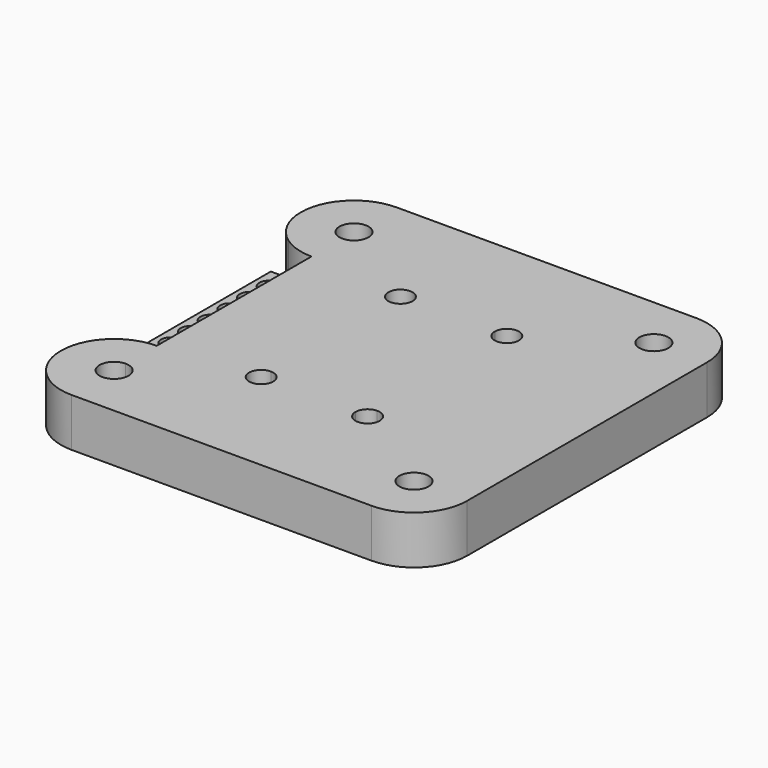
from build123d import *

# Parameters (mm, degrees)
F0_R     = 1.5
F1_DEPTH = 5
F2_DEPTH = 1.6


with BuildPart() as f1:
    # F0 (on Top) → F1 (new body)
    with BuildSketch(Plane.XY):
        with BuildLine():
            ThreePointArc((-15.5, 21), (-19.3890872965, 19.3890872965), (-21, 15.5))
            ThreePointArc((-21, 15.5), (-20.3807031835, 12.9645046964), (-18.6622776602, 11))
            Line((-18.6622776602, 11), (-15.5, 11))
            Line((-15.5, 11), (-12.3377223398, 11))
            ThreePointArc((-12.3377223398, 11), (-10.6192968165, 12.9645046964), (-10, 15.5))
            ThreePointArc((-10, 15.5), (-11.6109127035, 19.3890872965), (-15.5, 21))
        make_face()
        with BuildLine():
            ThreePointArc((-14, 15.5), (-14.4393398282, 14.4393398282), (-15.5, 14))
            ThreePointArc((-15.5, 14), (-16.5606601718, 16.5606601718), (-14, 15.5))
        make_face(mode=Mode.SUBTRACT)
        with BuildLine():
            ThreePointArc((-21, -15.5), (-19.3890872965, -19.3890872965), (-15.5, -21))
            ThreePointArc((-15.5, -21), (-11.6109127035, -19.3890872965), (-10, -15.5))
            ThreePointArc((-10, -15.5), (-10.6192968165, -12.9645046964), (-12.3377223398, -11))
            Line((-12.3377223398, -11), (-15.5, -11))
            Line((-15.5, -11), (-18.6622776602, -11))
            ThreePointArc((-18.6622776602, -11), (-20.3807031835, -12.9645046964), (-21, -15.5))
        make_face()
        with BuildLine():
            ThreePointArc((-14, -15.5), (-16.5606601718, -16.5606601718), (-15.5, -14))
            ThreePointArc((-15.5, -14), (-14.4393398282, -14.4393398282), (-14, -15.5))
        make_face(mode=Mode.SUBTRACT)
        with BuildLine():
            Line((-15.5, -21), (15.5, -21))
            ThreePointArc((15.5, -21), (19.3890872965, -19.3890872965), (21, -15.5))
            Line((21, -15.5), (21, 15.5))
            ThreePointArc((21, 15.5), (19.3890872965, 19.3890872965), (15.5, 21))
            Line((15.5, 21), (-15.5, 21))
            ThreePointArc((-15.5, 21), (-11.6109127035, 19.3890872965), (-10, 15.5))
            ThreePointArc((-10, 15.5), (-10.6192968165, 12.9645046964), (-12.3377223398, 11))
            Line((-12.3377223398, 11), (7.5, 11))
            Line((7.5, 11), (7.5, -11))
            Line((7.5, -11), (-12.3377223398, -11))
            ThreePointArc((-12.3377223398, -11), (-10.6192968165, -12.9645046964), (-10, -15.5))
            ThreePointArc((-10, -15.5), (-11.6109127035, -19.3890872965), (-15.5, -21))
        make_face()
        with Locations((15.5, -15.5)):
            Circle(F0_R, mode=Mode.SUBTRACT)
        with Locations((15.5, 15.5)):
            Circle(F0_R, mode=Mode.SUBTRACT)
        with BuildLine():
            ThreePointArc((-15.5, -10), (-13.8416876048, -10.2559557591), (-12.3377223398, -11))
            Line((-12.3377223398, -11), (7.5, -11))
            Line((7.5, -11), (7.5, 11))
            Line((7.5, 11), (-12.3377223398, 11))
            ThreePointArc((-12.3377223398, 11), (-13.8416876048, 10.2559557591), (-15.5, 10))
            Line((-15.5, 10), (-15.5, -10))
        make_face()
        with BuildLine():
            ThreePointArc((-5.5, 7.75), (-6.3838834765, 9.8838834765), (-4.25, 9))
            Line((-4.25, 9), (4.25, 9))
            ThreePointArc((4.25, 9), (5.5, 10.25), (6.75, 9))
            ThreePointArc((6.75, 9), (6.3838834765, 8.1161165235), (5.5, 7.75))
            Line((5.5, 7.75), (5.5, -7.75))
            ThreePointArc((5.5, -7.75), (6.3838834765, -8.1161165235), (6.75, -9))
            ThreePointArc((6.75, -9), (5.5, -10.25), (4.25, -9))
            Line((4.25, -9), (-4.25, -9))
            ThreePointArc((-4.25, -9), (-6.3838834765, -9.8838834765), (-5.5, -7.75))
            Line((-5.5, -7.75), (-5.5, 7.75))
        make_face(mode=Mode.SUBTRACT)
        with BuildLine():
            Line((-12.3377223398, 11), (-15.5, 11))
            Line((-15.5, 11), (-15.5, 10))
            ThreePointArc((-15.5, 10), (-13.8416876048, 10.2559557591), (-12.3377223398, 11))
        make_face()
        with BuildLine():
            Line((-15.5, -11), (-12.3377223398, -11))
            ThreePointArc((-12.3377223398, -11), (-13.8416876048, -10.2559557591), (-15.5, -10))
            Line((-15.5, -10), (-15.5, -11))
        make_face()
        with BuildLine():
            Line((-15.5, 11), (-18.6622776602, 11))
            ThreePointArc((-18.6622776602, 11), (-17.1583123952, 10.2559557591), (-15.5, 10))
            Line((-15.5, 10), (-15.5, 11))
        make_face()
        with BuildLine():
            ThreePointArc((-15.5, -10), (-17.1583123952, -10.2559557591), (-18.6622776602, -11))
            Line((-18.6622776602, -11), (-15.5, -11))
            Line((-15.5, -11), (-15.5, -10))
        make_face()
        with BuildLine():
            Line((4.25, 9), (-4.25, 9))
            ThreePointArc((-4.25, 9), (-4.6161165235, 8.1161165235), (-5.5, 7.75))
            Line((-5.5, 7.75), (-5.5, -7.75))
            ThreePointArc((-5.5, -7.75), (-4.6161165235, -8.1161165235), (-4.25, -9))
            Line((-4.25, -9), (4.25, -9))
            ThreePointArc((4.25, -9), (4.6161165235, -8.1161165235), (5.5, -7.75))
            Line((5.5, -7.75), (5.5, 7.75))
            ThreePointArc((5.5, 7.75), (4.6161165235, 8.1161165235), (4.25, 9))
        make_face()
    extrude(amount=F1_DEPTH)


with BuildPart() as f2:
    # F0 (on Top) → F2 (new body)
    with BuildSketch(Plane.XY):
        with BuildLine():
            ThreePointArc((-15.5, -10), (-13.8416876048, -10.2559557591), (-12.3377223398, -11))
            Line((-12.3377223398, -11), (7.5, -11))
            Line((7.5, -11), (7.5, 11))
            Line((7.5, 11), (-12.3377223398, 11))
            ThreePointArc((-12.3377223398, 11), (-13.8416876048, 10.2559557591), (-15.5, 10))
            Line((-15.5, 10), (-15.5, -10))
        make_face()
        with BuildLine():
            ThreePointArc((-5.5, 7.75), (-6.3838834765, 9.8838834765), (-4.25, 9))
            Line((-4.25, 9), (4.25, 9))
            ThreePointArc((4.25, 9), (5.5, 10.25), (6.75, 9))
            ThreePointArc((6.75, 9), (6.3838834765, 8.1161165235), (5.5, 7.75))
            Line((5.5, 7.75), (5.5, -7.75))
            ThreePointArc((5.5, -7.75), (6.3838834765, -8.1161165235), (6.75, -9))
            ThreePointArc((6.75, -9), (5.5, -10.25), (4.25, -9))
            Line((4.25, -9), (-4.25, -9))
            ThreePointArc((-4.25, -9), (-6.3838834765, -9.8838834765), (-5.5, -7.75))
            Line((-5.5, -7.75), (-5.5, 7.75))
        make_face(mode=Mode.SUBTRACT)
        with BuildLine():
            Line((4.25, 9), (-4.25, 9))
            ThreePointArc((-4.25, 9), (-4.6161165235, 8.1161165235), (-5.5, 7.75))
            Line((-5.5, 7.75), (-5.5, -7.75))
            ThreePointArc((-5.5, -7.75), (-4.6161165235, -8.1161165235), (-4.25, -9))
            Line((-4.25, -9), (4.25, -9))
            ThreePointArc((4.25, -9), (4.6161165235, -8.1161165235), (5.5, -7.75))
            Line((5.5, -7.75), (5.5, 7.75))
            ThreePointArc((5.5, 7.75), (4.6161165235, 8.1161165235), (4.25, 9))
        make_face()
        with BuildLine():
            Line((-19, -11), (-18.6622776602, -11))
            ThreePointArc((-18.6622776602, -11), (-17.1583123952, -10.2559557591), (-15.5, -10))
            Line((-15.5, -10), (-15.5, 10))
            ThreePointArc((-15.5, 10), (-17.1583123952, 10.2559557591), (-18.6622776602, 11))
            Line((-18.6622776602, 11), (-19, 11))
            Line((-19, 11), (-19, 9.89))
            ThreePointArc((-19, 9.89), (-18.2928932188, 9.5971067812), (-18, 8.89))
            ThreePointArc((-18, 8.89), (-18.2928932188, 8.1828932188), (-19, 7.89))
            Line((-19, 7.89), (-19, 7.35))
            ThreePointArc((-19, 7.35), (-18.2928932188, 7.0571067812), (-18, 6.35))
            ThreePointArc((-18, 6.35), (-18.2928932188, 5.6428932188), (-19, 5.35))
            Line((-19, 5.35), (-19, 4.81))
            ThreePointArc((-19, 4.81), (-18.2928932188, 4.5171067812), (-18, 3.81))
            ThreePointArc((-18, 3.81), (-18.2928932188, 3.1028932188), (-19, 2.81))
            Line((-19, 2.81), (-19, 2.27))
            ThreePointArc((-19, 2.27), (-18.2928932188, 1.9771067812), (-18, 1.27))
            ThreePointArc((-18, 1.27), (-18.2928932188, 0.5628932188), (-19, 0.27))
            Line((-19, 0.27), (-19, -0.27))
            ThreePointArc((-19, -0.27), (-18.2928932188, -0.5628932188), (-18, -1.27))
            ThreePointArc((-18, -1.27), (-18.2928932188, -1.9771067812), (-19, -2.27))
            Line((-19, -2.27), (-19, -2.81))
            ThreePointArc((-19, -2.81), (-18.2928932188, -3.1028932188), (-18, -3.81))
            ThreePointArc((-18, -3.81), (-18.2928932188, -4.5171067812), (-19, -4.81))
            Line((-19, -4.81), (-19, -5.35))
            ThreePointArc((-19, -5.35), (-18.2928932188, -5.6428932188), (-18, -6.35))
            ThreePointArc((-18, -6.35), (-18.2928932188, -7.0571067812), (-19, -7.35))
            Line((-19, -7.35), (-19, -7.89))
            ThreePointArc((-19, -7.89), (-18.2928932188, -8.1828932188), (-18, -8.89))
            ThreePointArc((-18, -8.89), (-18.2928932188, -9.5971067812), (-19, -9.89))
            Line((-19, -9.89), (-19, -11))
        make_face()
        with BuildLine():
            Line((-20.5, -11), (-19, -11))
            Line((-19, -11), (-19, -9.89))
            ThreePointArc((-19, -9.89), (-20, -8.89), (-19, -7.89))
            Line((-19, -7.89), (-19, -7.35))
            ThreePointArc((-19, -7.35), (-20, -6.35), (-19, -5.35))
            Line((-19, -5.35), (-19, -4.81))
            ThreePointArc((-19, -4.81), (-20, -3.81), (-19, -2.81))
            Line((-19, -2.81), (-19, -2.27))
            ThreePointArc((-19, -2.27), (-20, -1.27), (-19, -0.27))
            Line((-19, -0.27), (-19, 0.27))
            ThreePointArc((-19, 0.27), (-20, 1.27), (-19, 2.27))
            Line((-19, 2.27), (-19, 2.81))
            ThreePointArc((-19, 2.81), (-20, 3.81), (-19, 4.81))
            Line((-19, 4.81), (-19, 5.35))
            ThreePointArc((-19, 5.35), (-20, 6.35), (-19, 7.35))
            Line((-19, 7.35), (-19, 7.89))
            ThreePointArc((-19, 7.89), (-20, 8.89), (-19, 9.89))
            Line((-19, 9.89), (-19, 11))
            Line((-19, 11), (-20.5, 11))
            Line((-20.5, 11), (-20.5, -11))
        make_face()
        with BuildLine():
            ThreePointArc((-15.5, -10), (-17.1583123952, -10.2559557591), (-18.6622776602, -11))
            Line((-18.6622776602, -11), (-15.5, -11))
            Line((-15.5, -11), (-15.5, -10))
        make_face()
        with BuildLine():
            Line((-15.5, -11), (-12.3377223398, -11))
            ThreePointArc((-12.3377223398, -11), (-13.8416876048, -10.2559557591), (-15.5, -10))
            Line((-15.5, -10), (-15.5, -11))
        make_face()
        with BuildLine():
            Line((-15.5, 11), (-18.6622776602, 11))
            ThreePointArc((-18.6622776602, 11), (-17.1583123952, 10.2559557591), (-15.5, 10))
            Line((-15.5, 10), (-15.5, 11))
        make_face()
        with BuildLine():
            Line((-12.3377223398, 11), (-15.5, 11))
            Line((-15.5, 11), (-15.5, 10))
            ThreePointArc((-15.5, 10), (-13.8416876048, 10.2559557591), (-12.3377223398, 11))
        make_face()
    extrude(amount=F2_DEPTH)


solid = Compound([f1.part, f2.part])
